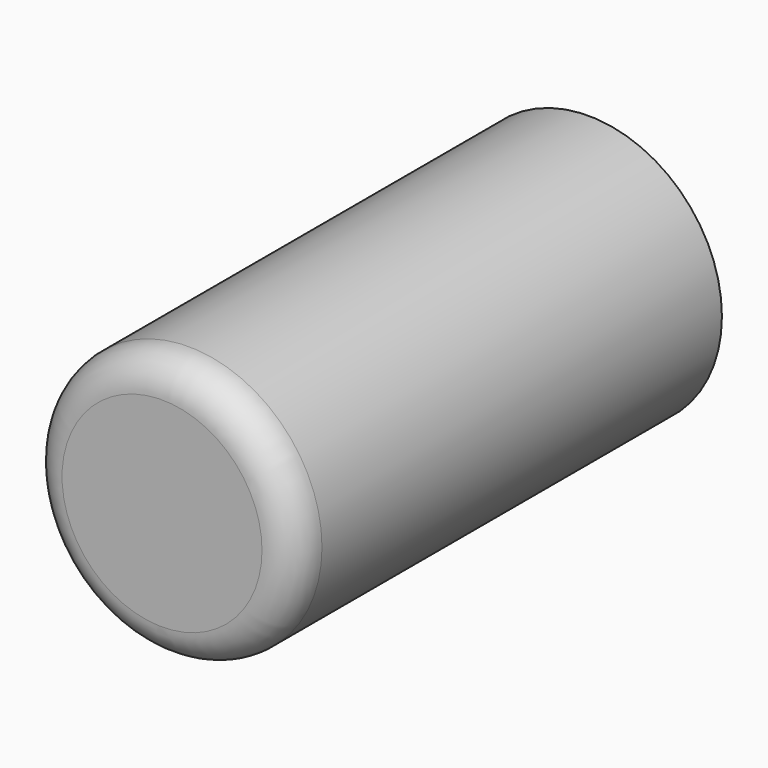
from build123d import *

# Parameters (mm, degrees)
F0_R     = 25.4
F1_DEPTH = 101.6
F2_R     = 6.35
F4_D     = 5.1054
F4_DEPTH = 16.51
F4_TIP   = 1.5338169022


with BuildPart() as f1:
    # F0 (on Front) → F1 (new body)
    with BuildSketch(Plane.XZ):
        Circle(F0_R)
    extrude(amount=F1_DEPTH)

    # F2
    f2_edges = [f1.edges().sort_by_distance(p)[0] for p in [
        (-25.4, -101.6, 0),
    ]]
    fillet(f2_edges, radius=F2_R)

    # F4
    with Locations(Plane(origin=(0, 0, 0), x_dir=(-1, 0, 0), z_dir=(0, 1, 0))):
        with Locations((0, 0)):
            Hole(F4_D / 2, depth=F4_DEPTH)
            with Locations((0, 0, -(F4_DEPTH + F4_TIP / 2))):  # 118° drill point
                Cone(0, F4_D / 2, F4_TIP, mode=Mode.SUBTRACT)


solid = f1.part
